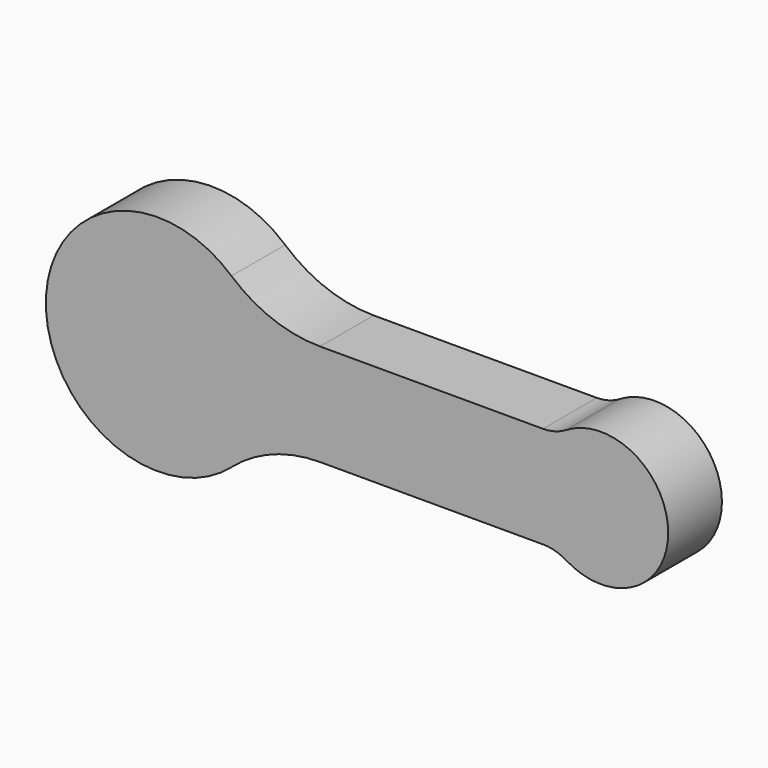
from build123d import *

# Parameters (mm, degrees)
F0_R     = 5.08
F0_R_2   = 2.54
F1_DEPTH = 3.81


with BuildPart() as f1:
    # F0 (on Front) → F1 (new body)
    with BuildSketch(Plane.XZ):
        with BuildLine():
            ThreePointArc((-6.879859, 2.88767), (-9.562274, 3.375416), (-11.901293, 4.776214))
            ThreePointArc((-11.901293, 4.776214), (-22.435822, 0), (-11.901293, -4.776214))
            ThreePointArc((-11.901293, -4.776214), (-9.562274, -3.375416), (-6.879859, -2.88767))
            Line((-6.879859, -2.88767), (5.77692, -2.88767))
            ThreePointArc((5.77692, -2.88767), (6.461422, -2.981642), (7.095276, -3.256602))
            ThreePointArc((7.095276, -3.256602), (12.88281, 0), (7.095276, 3.256602))
            ThreePointArc((7.095276, 3.256602), (6.461422, 2.981642), (5.77692, 2.88767))
            Line((5.77692, 2.88767), (-6.879859, 2.88767))
        make_face()
        with Locations((-16.085822, 0)):
            Circle(F0_R, mode=Mode.SUBTRACT)
        with Locations((9.07281, 0)):
            Circle(F0_R_2, mode=Mode.SUBTRACT)
        with Locations((-16.085822, 0)):
            Circle(F0_R)
        with Locations((9.07281, 0)):
            Circle(F0_R_2)
    extrude(amount=F1_DEPTH)


solid = f1.part
